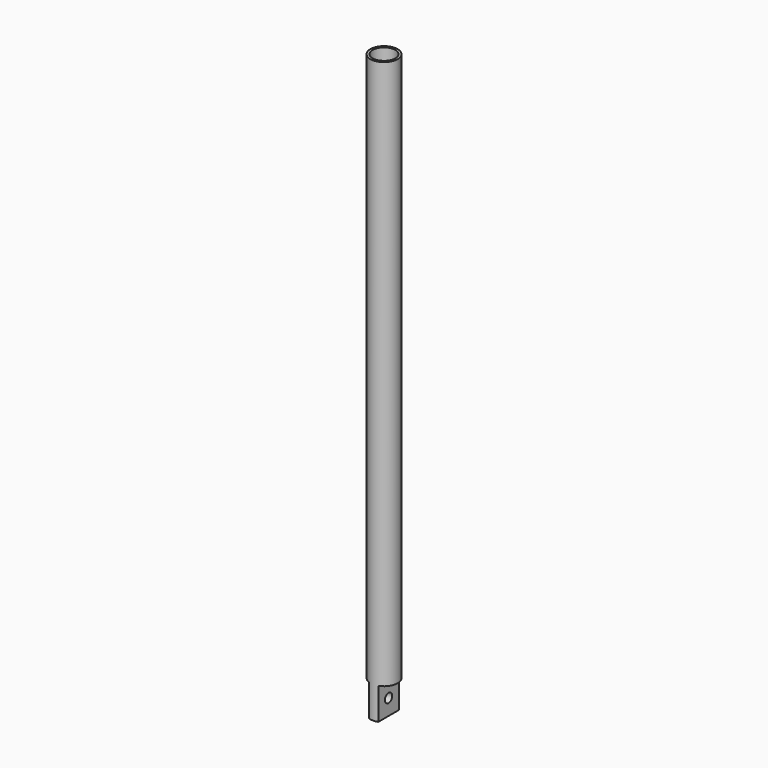
from build123d import *

# Parameters (mm, degrees)
F0_R     = 3
F1_DEPTH = 128
F2_R     = 2.5
F3_DEPTH = 110
F4_W     = 2.84218
F4_H     = 7
F5_DEPTH = 12.5
F6_R     = 1
F7_DEPTH = 4.001


with BuildPart() as f1:
    # F0 (on Top) → F1 (new body)
    with BuildSketch(Plane.XY):
        Circle(F0_R)
    extrude(amount=F1_DEPTH)

    # F2 (on face) → F3 (cut)
    with BuildSketch(Plane.XY.offset(128)):
        Circle(F2_R)
    extrude(amount=-F3_DEPTH, mode=Mode.SUBTRACT)

    # F4 (on Front) → F5 (cut, symmetric)
    with BuildSketch(Plane.XZ):
        with Locations((2.42109, 3.5)):
            Rectangle(F4_W, F4_H)
        with Locations((-2.42109, 3.5)):
            Rectangle(F4_W, F4_H)
    extrude(amount=F5_DEPTH, both=True, mode=Mode.SUBTRACT)

    # F6 (on face) → F7 (cut, through all)
    with BuildSketch(Plane(origin=(-1, 0, 0), x_dir=(0, -1, 0), z_dir=(-1, 0, 0))):
        with Locations((0, 3.5)):
            Circle(F6_R)
    extrude(amount=-F7_DEPTH, mode=Mode.SUBTRACT)


solid = f1.part
